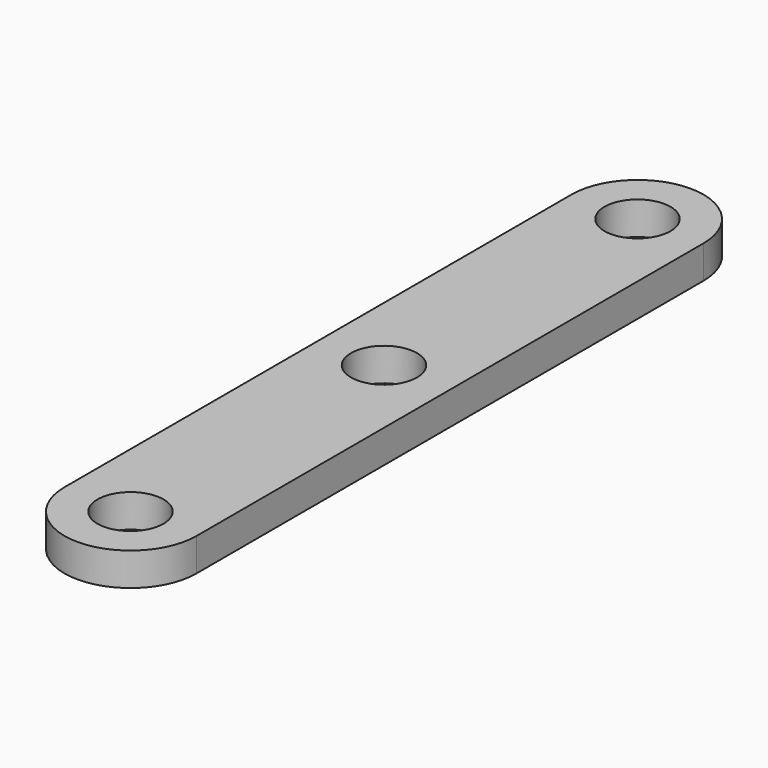
from build123d import *

# Parameters (mm, degrees)
F0_R     = 5
F1_DEPTH = 5


with BuildPart() as f1:
    # F0 (on Top) → F1 (new body)
    with BuildSketch(Plane.XY):
        with BuildLine():
            Line((-10, 96), (-10, 0))
            ThreePointArc((-10, 0), (0, -10), (10, 0))
            Line((10, 0), (10, 96))
            ThreePointArc((10, 96), (0, 106), (-10, 96))
        make_face()
        Circle(F0_R, mode=Mode.SUBTRACT)
        with Locations((0, 48)):
            Circle(F0_R, mode=Mode.SUBTRACT)
        with Locations((0, 96)):
            Circle(F0_R, mode=Mode.SUBTRACT)
    extrude(amount=F1_DEPTH)


solid = f1.part
